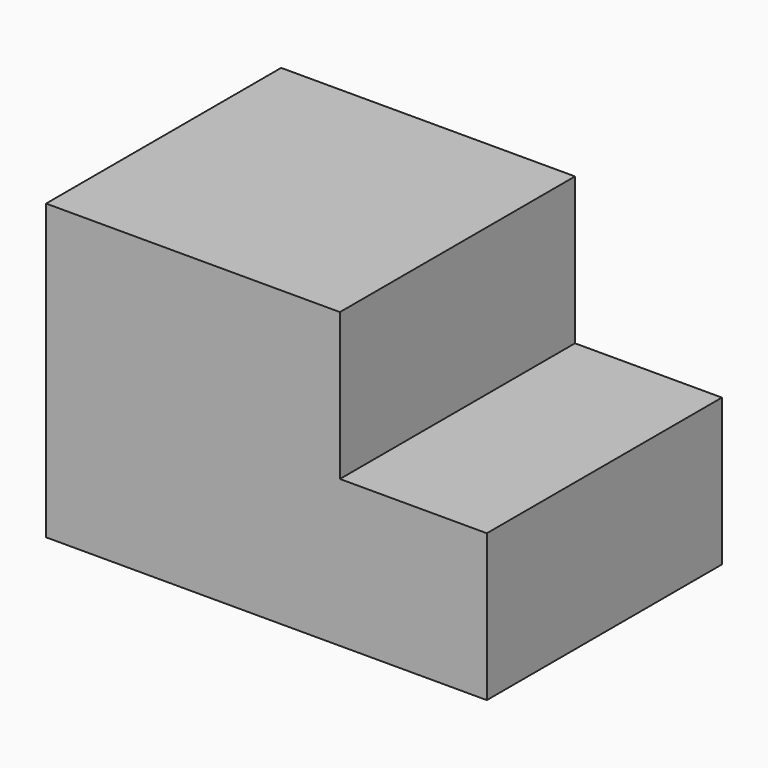
from build123d import *

# Parameters (mm, degrees)
F1_DEPTH = 25.4
F2_DEPTH = 25.4


with BuildPart() as f1:
    # F0 (on Front) → F1 (new body)
    with BuildSketch(Plane.XZ):
        Polygon((-31.647212, 10.473987), (-31.647212, -40.326013), (44.552788, -40.326013), (44.552788, -14.926013), (19.152788, -14.926013), (19.152788, 10.473987), align=None)
    extrude(amount=F1_DEPTH)

    # F1_face (on face) → F2 (join)
    with BuildSketch(Plane(origin=(1.372788, -25.4, -17.466013), x_dir=(1, 0, 0), z_dir=(0, -1, 0))):
        Polygon((-33.02, 27.94), (-33.02, -22.86), (43.18, -22.86), (43.18, 2.54), (17.78, 2.54), (17.78, 27.94), align=None)
    extrude(amount=F2_DEPTH)


solid = f1.part
